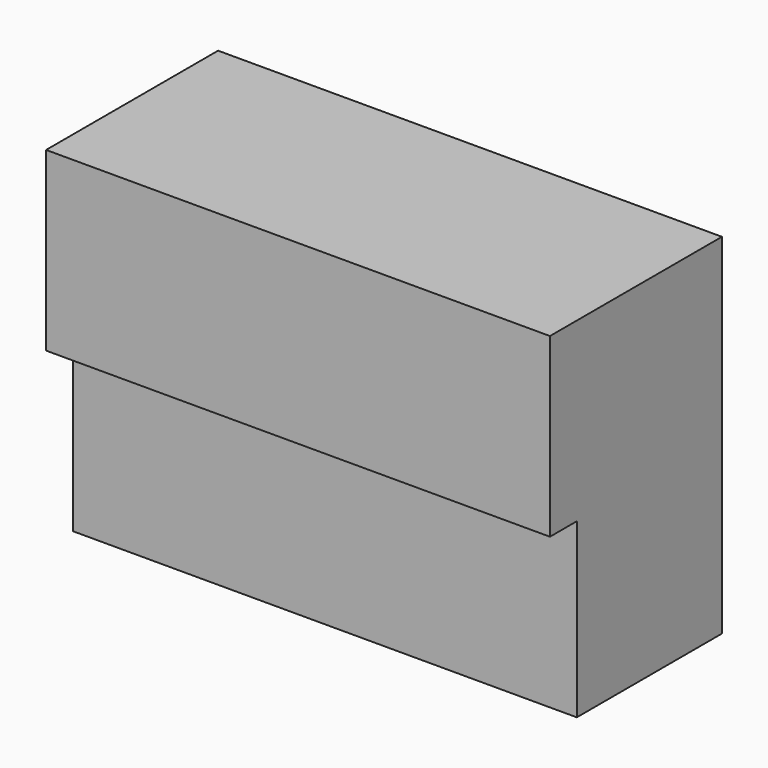
from build123d import *

# Parameters (mm, degrees)
BOX_W        = 75
BOX_H        = 32
BOX_DEPTH    = 52
SKETCH_W     = 75
SKETCH_H     = 25.7
POCKET_DEPTH = 5


with BuildPart() as part:
    # Box → Box (new body)
    with BuildSketch(Plane.XY):
        with Locations((37.5, 16)):
            Rectangle(BOX_W, BOX_H)
    extrude(amount=BOX_DEPTH)

    # Sketch → Pocket (cut)
    with BuildSketch(Plane.XZ):
        with Locations((37.5, 12.85)):
            Rectangle(SKETCH_W, SKETCH_H)
    extrude(amount=-POCKET_DEPTH, mode=Mode.SUBTRACT)


solid = part.part
